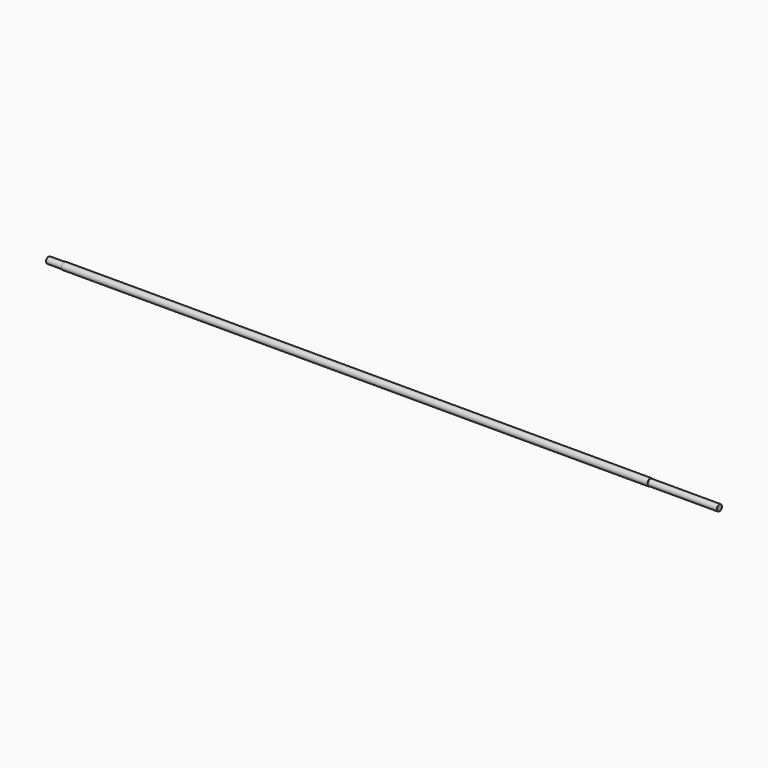
from build123d import *

# Parameters (mm, degrees)
CYLINDER_R           = 5.556
CYLINDER_DEPTH       = 1066.8
CYLINDER_PITCH_ANGLE = 90
SKETCH_R             = 7
SKETCH_R_2           = 5
POCKET_DEPTH         = 25
SKETCH001_R          = 7
SKETCH001_R_2        = 5
POCKET001_DEPTH      = 110


with BuildPart() as part:
    # Cylinder → Cylinder (new body)
    with BuildSketch(Plane.XY):
        Circle(CYLINDER_R)
    extrude(amount=CYLINDER_DEPTH)


with BuildPart() as part_1:
    # Cylinder pitch: moved
    add(part.part.rotate(Axis((0, 0, 0), (0, 1, 0)), CYLINDER_PITCH_ANGLE))


with BuildPart() as part_2:
    # Cylinder placement: moved
    add(part_1.part.moved(Location((-491, -836, 778))))

    # Sketch → Pocket (cut)
    with BuildSketch(Plane(origin=(-491, -836, 778), x_dir=(0, 0, -1), z_dir=(-1, 0, 0))):
        Circle(SKETCH_R)
        Circle(SKETCH_R_2, mode=Mode.SUBTRACT)
    extrude(amount=-POCKET_DEPTH, mode=Mode.SUBTRACT)

    # Sketch001 → Pocket001 (cut)
    with BuildSketch(Plane(origin=(575.8, -836, 778), x_dir=(0, 0, -1), z_dir=(1, 0, 0))):
        Circle(SKETCH001_R)
        Circle(SKETCH001_R_2, mode=Mode.SUBTRACT)
    extrude(amount=-POCKET001_DEPTH, mode=Mode.SUBTRACT)


solid = part_2.part
